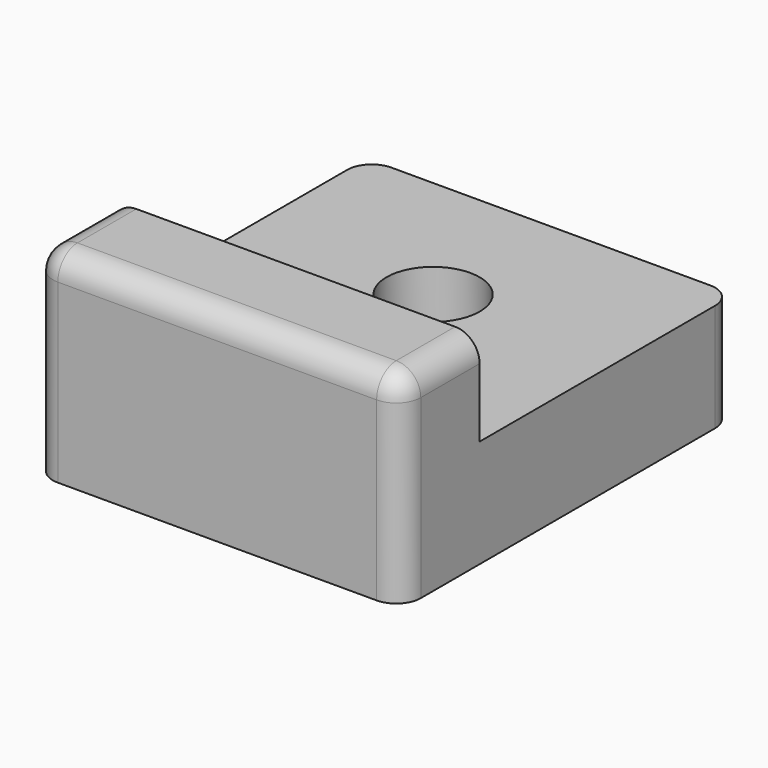
from build123d import *

# Parameters (mm, degrees)
F0_W     = 15
F0_H     = 13
F0_H_2   = 4
F1_DEPTH = 2.2
F2_DEPTH = 6
F0_R     = 1.9
F3_DEPTH = 2.2
F4_R     = 1
F5_ANGLE = 180
F6_SIZE  = 0.5


with BuildPart() as f1:
    # F0 (on Top) → F1 (new body)
    with BuildSketch(Plane.XY):
        with Locations((7.5, -6.5)):
            Rectangle(F0_W, F0_H)
        Polygon((5.7679491924, -3), (9.2320508076, -3), (10.9641016151, -6), (9.2320508076, -9), (5.7679491924, -9), (4.0358983849, -6), align=None, mode=Mode.SUBTRACT)
        with Locations((7.5, -15)):
            Rectangle(F0_W, F0_H_2)
    extrude(amount=F1_DEPTH)

    # F0 (on Top) → F2 (join)
    with BuildSketch(Plane.XY):
        with Locations((7.5, -15)):
            Rectangle(F0_W, F0_H_2)
    extrude(amount=-F2_DEPTH)

    # F0 (on Top) → F3 (join)
    with BuildSketch(Plane.XY):
        with Locations((7.5, -6.5)):
            Rectangle(F0_W, F0_H)
        Polygon((5.7679491924, -3), (9.2320508076, -3), (10.9641016151, -6), (9.2320508076, -9), (5.7679491924, -9), (4.0358983849, -6), align=None, mode=Mode.SUBTRACT)
        Polygon((10.9641016151, -6), (9.2320508076, -3), (5.7679491924, -3), (4.0358983849, -6), (5.7679491924, -9), (9.2320508076, -9), align=None)
        with Locations((7.5, -6)):
            Circle(F0_R, mode=Mode.SUBTRACT)
    extrude(amount=-F3_DEPTH)

    # F4
    f4_edges = [f1.edges().sort_by_distance(p)[0] for p in [
        (0, 0, 0),
        (15, 0, 0),
        (0, -17, -1.9),
        (15, -17, -1.9),
        (7.5, -17, -6),
        (15, -15, -6),
        (0, -15, -6),
    ]]
    fillet(f4_edges, radius=F4_R)


with BuildPart() as f1_1:
    # F5: moved
    add(f1.part.rotate(Axis((0, -8.5, 2.2), (0, -1, 0)), F5_ANGLE))

    # F6
    f6_edges = [f1_1.edges().sort_by_distance(p)[0] for p in [
        (-4.901924, -4.5, 2.2),
        (-7.5, -3, 2.2),
        (-10.098076, -4.5, 2.2),
        (-10.098076, -7.5, 2.2),
        (-7.5, -9, 2.2),
        (-4.901924, -7.5, 2.2),
    ]]
    chamfer(f6_edges, length=F6_SIZE)


solid = f1_1.part
